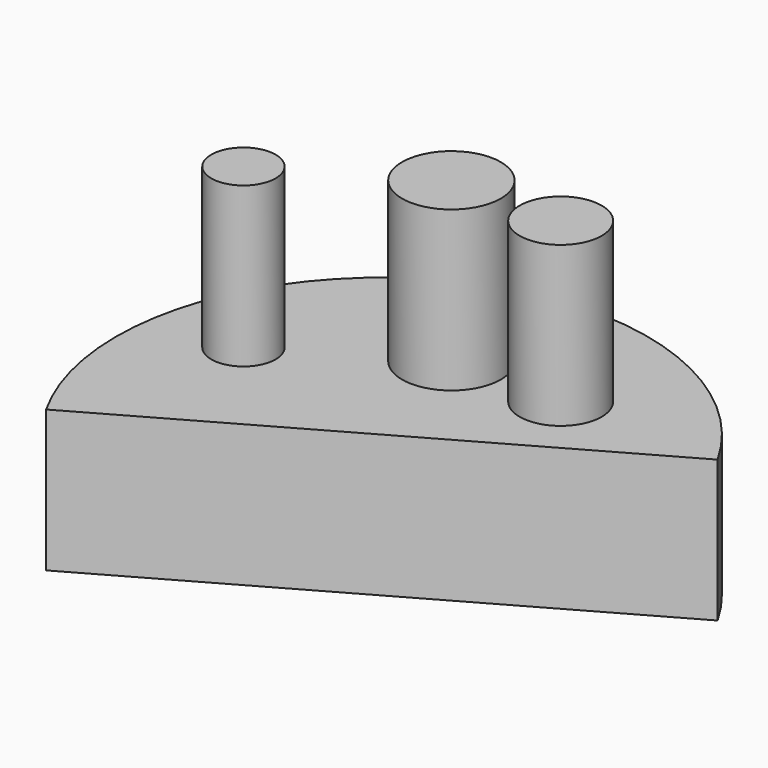
from build123d import *

# Parameters (mm, degrees)
F1_DEPTH = 10.16
F2_R     = 2.306919
F2_R_2   = 3.543384
F2_R_3   = 2.942045
F3_DEPTH = 11.43


with BuildPart() as f1:
    # F0 (on Top) → F1 (new body)
    with BuildSketch(Plane.XY):
        with BuildLine():
            ThreePointArc((1.858081, 47.688183), (-24.099832, 54.898716), (-31.310365, 28.940803))
            Line((-31.310365, 28.940803), (1.858081, 47.688183))
        make_face()
    extrude(amount=F1_DEPTH)

    # F2 (on face) → F3 (join)
    with BuildSketch(Plane.XY.offset(10.16)):
        with Locations((-27.377339, 41.719742)):
            Circle(F2_R)
        with Locations((-17.233273, 47.688183)):
            Circle(F2_R_2)
        with Locations((-9.395301, 47.688183)):
            Circle(F2_R_3)
    extrude(amount=F3_DEPTH)


solid = f1.part
